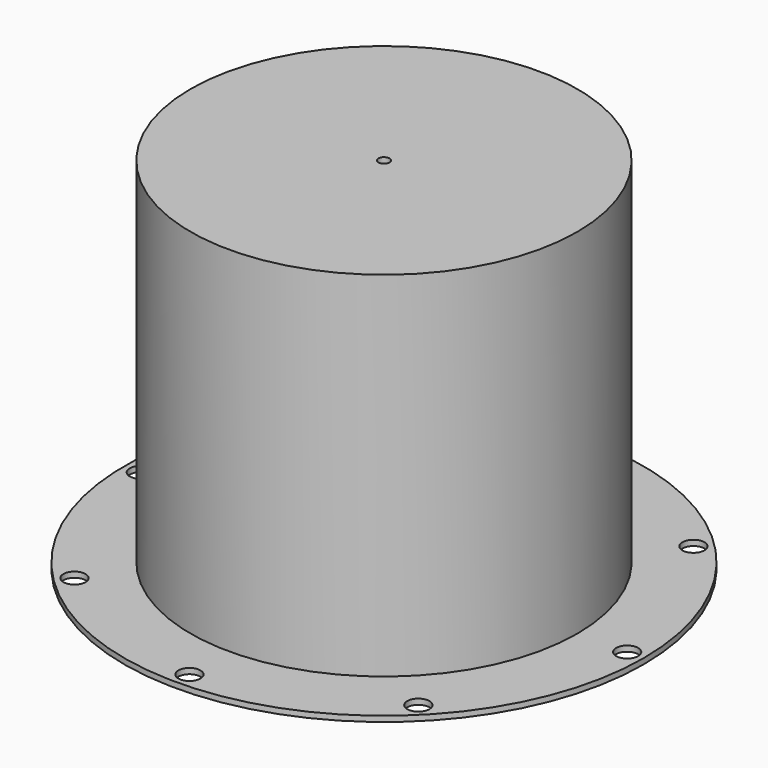
from build123d import *

# Parameters (mm, degrees)
F0_R     = 298.45
F0_R_2   = 12.7
F0_R_3   = 216.637975
F1_DEPTH = 6.35
F3_R     = 222.25
F3_R_2   = 215.9
F4_DEPTH = 400.05
F6_R     = 222.25
F6_R_2   = 6.35
F7_DEPTH = 6.35


with BuildPart() as f1:
    # F0 (on Top) → F1 (new body)
    with BuildSketch(Plane.XY):
        Circle(F0_R)
        with Locations((-197.565635, -197.565635)):
            Circle(F0_R_2, mode=Mode.SUBTRACT)
        with Locations((0, -279.4)):
            Circle(F0_R_2, mode=Mode.SUBTRACT)
        with Locations((197.565635, -197.565635)):
            Circle(F0_R_2, mode=Mode.SUBTRACT)
        with Locations((-279.4, 0)):
            Circle(F0_R_2, mode=Mode.SUBTRACT)
        with Locations((-197.565635, 197.565635)):
            Circle(F0_R_2, mode=Mode.SUBTRACT)
        Circle(F0_R_3, mode=Mode.SUBTRACT)
        with Locations((279.4, 0)):
            Circle(F0_R_2, mode=Mode.SUBTRACT)
        with Locations((0, 279.4)):
            Circle(F0_R_2, mode=Mode.SUBTRACT)
        with Locations((197.565635, 197.565635)):
            Circle(F0_R_2, mode=Mode.SUBTRACT)
    extrude(amount=F1_DEPTH)

    # F3 (on offset) → F4 (join)
    with BuildSketch(Plane.XY.offset(6.35)):
        Circle(F3_R)
        Circle(F3_R_2, mode=Mode.SUBTRACT)
    extrude(amount=F4_DEPTH)

    # F6 (on offset) → F7 (join)
    with BuildSketch(Plane.XY.offset(406.4)):
        Circle(F6_R)
        Circle(F6_R_2, mode=Mode.SUBTRACT)
    extrude(amount=F7_DEPTH)


solid = f1.part
